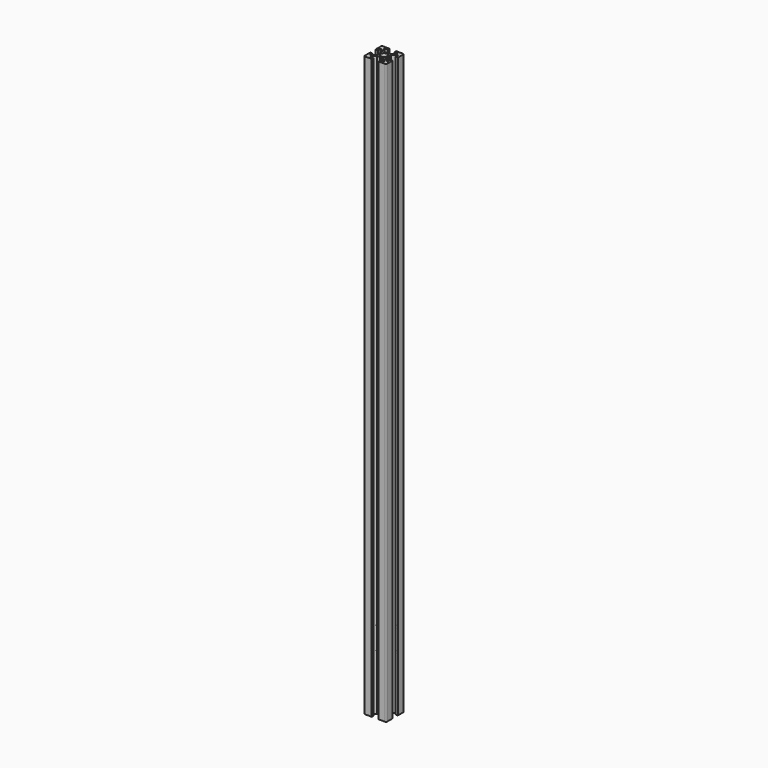
from build123d import *

# Parameters (mm, degrees)
SKETCH001_R     = 2.9
PAD_DEPTH       = 520
SKETCH_R        = 3.175
POCKET_DEPTH    = 20.001
SKETCH002_R     = 3.175
POCKET001_DEPTH = 20.001


with BuildPart() as part:
    # Sketch001 → Pad (new body)
    with BuildSketch(Plane.XY):
        with BuildLine():
            Line((-8, -3), (-10, -3))
            Line((-10, -3), (-10, -9))
            ThreePointArc((-10, -9), (-9.707107, -9.707107), (-9, -10))
            Line((-9, -10), (-3, -10))
            Line((-3, -10), (-3, -8))
            Line((-3, -8), (-6, -8))
            Line((-6, -8), (-6, -7.06066))
            Line((-6, -7.06066), (-2.93934, -4))
            Line((-2.93934, -4), (-0.65359, -4))
            ThreePointArc((-0.65359, -4), (-0.52418, -3.982963), (-0.40359, -3.933013))
            Line((-0.40359, -3.933013), (0, -3.7))
            Line((0, -3.7), (0.40359, -3.933013))
            ThreePointArc((0.40359, -3.933013), (0.65359, -4), (0.90359, -3.933013))
            Line((0.90359, -3.933013), (1.218886, -3.750977))
            Line((1.218886, -3.750977), (2.5, -4))
            Line((2.5, -4), (2.93934, -4))
            Line((2.93934, -4), (6, -7.06066))
            Line((6, -7.06066), (6, -8))
            Line((6, -8), (3, -8))
            Line((3, -8), (3, -10))
            Line((3, -10), (9, -10))
            ThreePointArc((9, -10), (9.707107, -9.707107), (10, -9))
            Line((10, -9), (10, -3))
            Line((10, -3), (8, -3))
            Line((8, -3), (8, -6))
            Line((8, -6), (7.06066, -6))
            Line((7.06066, -6), (4, -2.93934))
            Line((4, -2.93934), (4, -0.65359))
            ThreePointArc((4, -0.65359), (3.982963, -0.52418), (3.933013, -0.40359))
            Line((3.933013, -0.40359), (3.7, 0))
            Line((3.7, 0), (3.933013, 0.40359))
            ThreePointArc((3.933013, 0.40359), (4, 0.65359), (3.933013, 0.90359))
            Line((3.933013, 0.90359), (3.750977, 1.218886))
            Line((3.750977, 1.218886), (4, 2.5))
            Line((4, 2.5), (4, 2.93934))
            Line((4, 2.93934), (7.06066, 6))
            Line((7.06066, 6), (8, 6))
            Line((8, 6), (8, 3))
            Line((8, 3), (10, 3))
            Line((10, 3), (10, 9))
            ThreePointArc((10, 9), (9.707107, 9.707107), (9, 10))
            Line((9, 10), (3, 10))
            Line((3, 10), (3, 8))
            Line((3, 8), (6, 8))
            Line((6, 8), (6, 7.06066))
            Line((6, 7.06066), (2.93934, 4))
            Line((2.93934, 4), (0.65359, 4))
            ThreePointArc((0.65359, 4), (0.52418, 3.982963), (0.40359, 3.933013))
            Line((0.40359, 3.933013), (0, 3.7))
            Line((0, 3.7), (-0.40359, 3.933013))
            ThreePointArc((-0.40359, 3.933013), (-0.65359, 4), (-0.90359, 3.933013))
            Line((-0.90359, 3.933013), (-1.218886, 3.750977))
            Line((-1.218886, 3.750977), (-2.5, 4))
            Line((-2.5, 4), (-2.93934, 4))
            Line((-2.93934, 4), (-6, 7.06066))
            Line((-6, 7.06066), (-6, 8))
            Line((-6, 8), (-3, 8))
            Line((-3, 8), (-3, 10))
            Line((-3, 10), (-9, 10))
            ThreePointArc((-9, 10), (-9.707107, 9.707107), (-10, 9))
            Line((-10, 9), (-10, 3))
            Line((-10, 3), (-8, 3))
            Line((-8, 3), (-8, 6))
            Line((-8, 6), (-7.06066, 6))
            Line((-7.06066, 6), (-4, 2.93934))
            Line((-4, 2.93934), (-4, 0.65359))
            ThreePointArc((-4, 0.65359), (-3.982963, 0.52418), (-3.933013, 0.40359))
            Line((-3.933013, 0.40359), (-3.7, 0))
            Line((-3.7, 0), (-3.933013, -0.40359))
            ThreePointArc((-3.933013, -0.40359), (-4, -0.65359), (-3.933013, -0.90359))
            Line((-3.933013, -0.90359), (-3.750977, -1.218886))
            Line((-3.750977, -1.218886), (-4, -2.5))
            Line((-4, -2.5), (-4, -2.93934))
            Line((-4, -2.93934), (-7.06066, -6))
            Line((-7.06066, -6), (-8, -6))
            Line((-8, -6), (-8, -3))
        make_face()
        Circle(SKETCH001_R, mode=Mode.SUBTRACT)
    extrude(amount=PAD_DEPTH)

    # Sketch (on Face4 of Pad) → Pocket (cut, through all)
    with BuildSketch(Plane.XZ.offset(10)):
        with Locations((0, 70)):
            Circle(SKETCH_R)
        with Locations((0, 50)):
            Circle(SKETCH_R)
    extrude(amount=-POCKET_DEPTH, mode=Mode.SUBTRACT)

    # Sketch002 (on Face65 of Pocket) → Pocket001 (cut, through all)
    with BuildSketch(Plane(origin=(-10, 0, 0), x_dir=(0, -1, 0), z_dir=(-1, 0, 0))):
        with Locations((0, 50)):
            Circle(SKETCH002_R)
        with Locations((0, 70)):
            Circle(SKETCH002_R)
    extrude(amount=-POCKET001_DEPTH, mode=Mode.SUBTRACT)


solid = part.part
